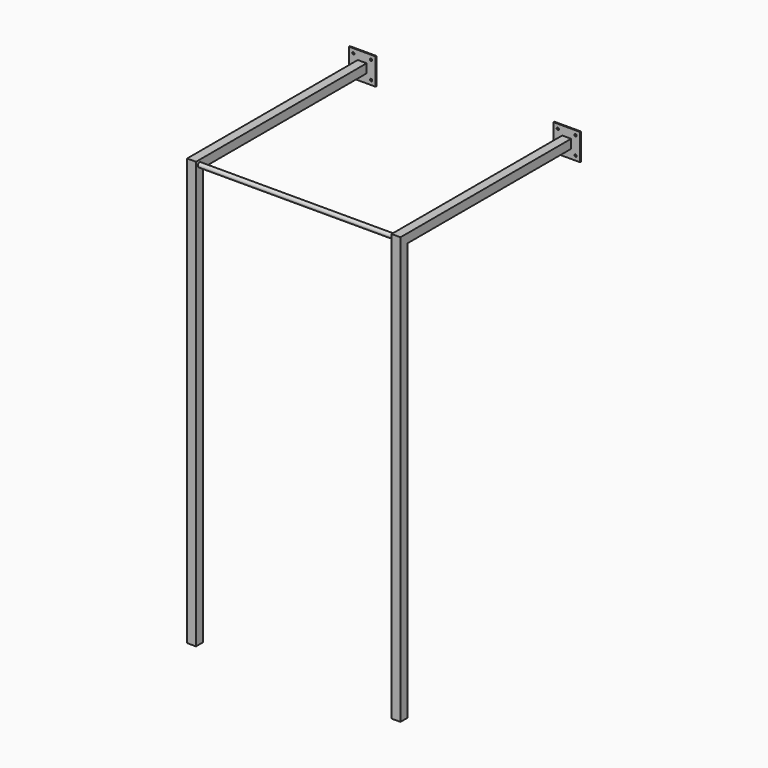
from build123d import *

# Parameters (mm, degrees)
F0_W     = 2
F0_H     = 2
F1_DEPTH = 96
F2_R     = 0.5
F3_DEPTH = 48
F4_START = 92
F4_DEPTH = 6
F5_START = 94
F0_H_2   = 44
F5_DEPTH = 2
F6_R     = 0.25
F7_DEPTH = 0.5
F8_R     = 0.25
F9_DEPTH = 0.5


with BuildPart() as f1:
    # F0 (on Top) → F1 (new body)
    with BuildSketch(Plane.XY):
        with Locations((-44.9200854897, -5.6579317451)):
            Rectangle(F0_W, F0_H)
    extrude(amount=F1_DEPTH)



with BuildPart() as f1b:
    # F0 (on Top) → F1, piece 2 (new body)
    with BuildSketch(Plane.XY):
        with Locations((1.0799145103, -5.6579317451)):
            Rectangle(F0_W, F0_H)
    extrude(amount=F1_DEPTH)


with BuildPart() as f1_1:
    add(f1.part)

    add(f1b.part)  # F3 merges F1b
    # F2 (on face) → F3 (join)
    with BuildSketch(Plane(origin=(-45.9200854897, 0, 0), x_dir=(0, -1, 0), z_dir=(-1, 0, 0))):
        with Locations((5.6579317451, 95)):
            Circle(F2_R)
    extrude(amount=-F3_DEPTH)



with BuildPart() as f4:
    # F0 (on Top) → F4 (new body)
    with BuildSketch(Plane.XY.offset(F4_START)):
        Polygon((-1.9200854897, 41.3420682549), (0.0799145103, 41.3420682549), (2.0799145103, 41.3420682549), (4.0799145103, 41.3420682549), (4.0799145103, 41.5920682549), (-1.9200854897, 41.5920682549), align=None)
    extrude(amount=F4_DEPTH)


with BuildPart() as f4b:
    # F0 (on Top) → F4, piece 2 (new body)
    with BuildSketch(Plane.XY.offset(F4_START)):
        Polygon((-47.9200854897, 41.3420682549), (-45.9200854897, 41.3420682549), (-43.9200854897, 41.3420682549), (-41.9200854897, 41.3420682549), (-41.9200854897, 41.5920682549), (-47.9200854897, 41.5920682549), align=None)
    extrude(amount=F4_DEPTH)


with BuildPart() as f1_2:
    add(f1_1.part)

    add(f4.part)  # F5 merges F4

    add(f4b.part)  # F5 merges F4b
    # F0 (on Top) → F5 (join)
    with BuildSketch(Plane.XY.offset(F5_START)):
        with Locations((-44.9200854897, -3.6579317451)):
            Rectangle(F0_W, F0_H)
        with Locations((1.0799145103, -3.6579317451)):
            Rectangle(F0_W, F0_H)
        with Locations((-44.9200854897, 19.3420682549)):
            Rectangle(F0_W, F0_H_2)
        with Locations((1.0799145103, 19.3420682549)):
            Rectangle(F0_W, F0_H_2)
    extrude(amount=F5_DEPTH)

    # F6 (on face) → F7 (cut)
    with BuildSketch(Plane(origin=(0, 41.5920682549, 0), x_dir=(-1, 0, 0), z_dir=(0, 1, 0))):
        with Locations((46.9200854897, 97)):
            Circle(F6_R)
        with Locations((42.9200854897, 97)):
            Circle(F6_R)
        with Locations((42.9200854897, 93)):
            Circle(F6_R)
        with Locations((46.9200854897, 93)):
            Circle(F6_R)
    extrude(amount=-F7_DEPTH, mode=Mode.SUBTRACT)

    # F8 (on face) → F9 (cut)
    with BuildSketch(Plane(origin=(0, 41.5920682549, 0), x_dir=(-1, 0, 0), z_dir=(0, 1, 0))):
        with Locations((-3.0799145103, 97)):
            Circle(F8_R)
        with Locations((0.9200854897, 97)):
            Circle(F8_R)
        with Locations((0.9200854897, 93)):
            Circle(F8_R)
        with Locations((-3.0799145103, 93)):
            Circle(F8_R)
    extrude(amount=-F9_DEPTH, mode=Mode.SUBTRACT)


solid = f1_2.part
